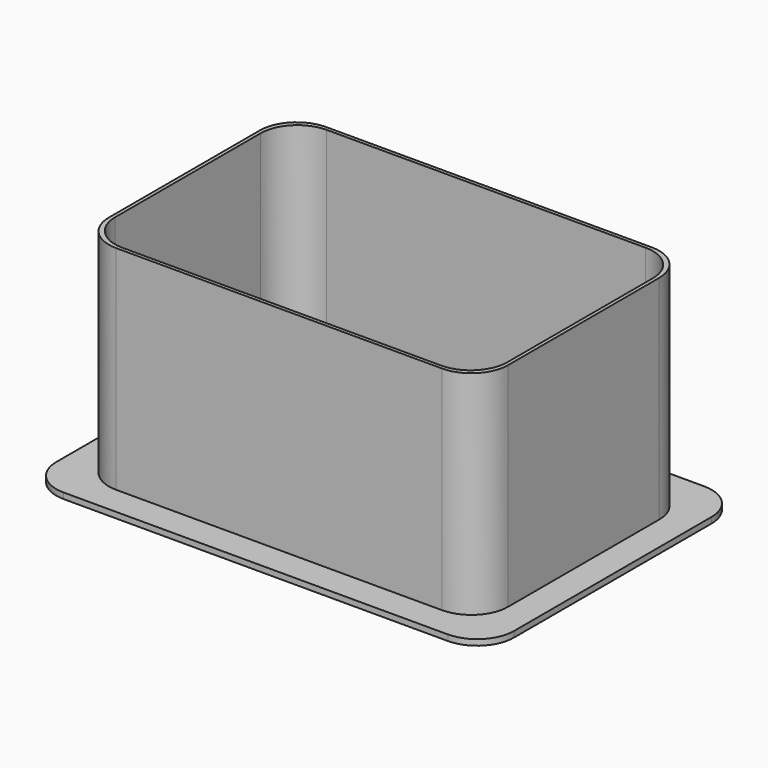
from build123d import *

# Parameters (mm, degrees)
PAD_DEPTH    = 75
PAD005_DEPTH = 2
POCKET_DEPTH = 75.001


with BuildPart() as part:
    # Sketch → Pad (new body)
    with BuildSketch(Plane.XY):
        with BuildLine():
            Line((55.9, 45), (-55.9, 45))
            ThreePointArc((-55.9, 45), (-64.809545, 41.309545), (-68.5, 32.4))
            Line((-68.5, 32.4), (-68.5, -32.4))
            ThreePointArc((-68.5, -32.4), (-64.809545, -41.309545), (-55.9, -45))
            Line((-55.9, -45), (55.9, -45))
            ThreePointArc((55.9, -45), (64.809545, -41.309545), (68.5, -32.4))
            Line((68.5, -32.4), (68.5, 32.4))
            ThreePointArc((68.5, 32.4), (64.809545, 41.309545), (55.9, 45))
        make_face()
    extrude(amount=PAD_DEPTH)

    # Sketch006 → Pad005 (join)
    with BuildSketch(Plane.XY):
        with BuildLine():
            Line((-65.9, 55), (65.9, 55))
            ThreePointArc((78.5, 42.4), (74.809545, 51.309545), (65.9, 55))
            Line((78.5, 42.4), (78.5, -42.4))
            ThreePointArc((65.9, -55), (74.809545, -51.309545), (78.5, -42.4))
            Line((65.9, -55), (-65.9, -55))
            ThreePointArc((-78.5, -42.4), (-74.809545, -51.309545), (-65.9, -55))
            Line((-78.5, -42.4), (-78.5, 42.4))
            ThreePointArc((-65.9, 55), (-74.809545, 51.309545), (-78.5, 42.4))
        make_face()
    extrude(amount=PAD005_DEPTH)

    # Sketch007 → Pocket (cut, through all)
    with BuildSketch(Plane.XY):
        with BuildLine():
            Line((-54.7, 43.8), (54.7, 43.8))
            ThreePointArc((67.3, 31.2), (63.609545, 40.109545), (54.7, 43.8))
            Line((67.3, 31.2), (67.3, -31.2))
            ThreePointArc((54.7, -43.8), (63.609545, -40.109545), (67.3, -31.2))
            Line((54.7, -43.8), (-54.7, -43.8))
            ThreePointArc((-67.3, -31.2), (-63.609545, -40.109545), (-54.7, -43.8))
            Line((-67.3, -31.2), (-67.3, 31.2))
            ThreePointArc((-54.7, 43.8), (-63.609545, 40.109545), (-67.3, 31.2))
        make_face()
    extrude(amount=POCKET_DEPTH, mode=Mode.SUBTRACT)


solid = part.part
